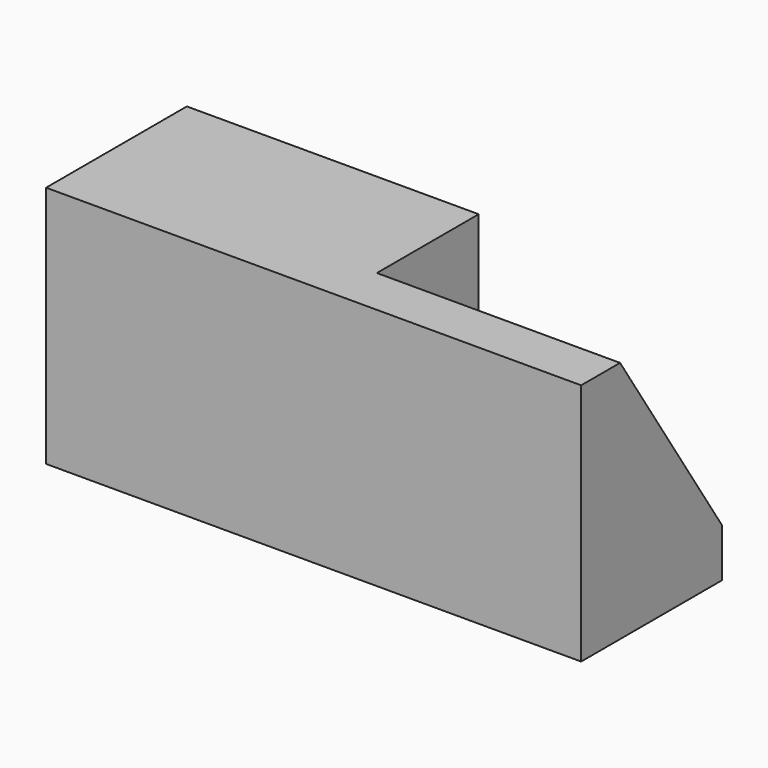
from build123d import *

# Parameters (mm, degrees)
F0_W     = 38.1
F0_H     = 22.971242
F1_DEPTH = 31.75
F3_DEPTH = 31.75


with BuildPart() as f1:
    # F0 (on Top) → F1 (new body)
    with BuildSketch(Plane.XY):
        with Locations((19.05, 17.423103)):
            Rectangle(F0_W, F0_H)
    extrude(amount=F1_DEPTH)

    # F2 (on face) → F3 (join)
    with BuildSketch(Plane.YZ.offset(38.1)):
        Polygon((12.287482, 31.75), (5.937482, 31.75), (5.937482, 0), (28.908724, 0), (28.908724, 6.35), align=None)
    extrude(amount=F3_DEPTH)


solid = f1.part
